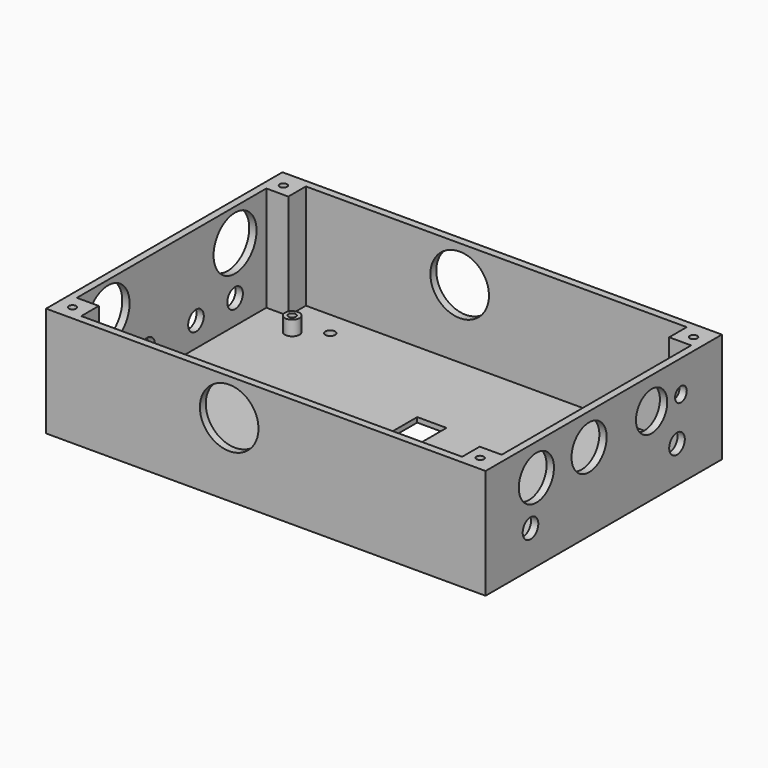
from build123d import *

# Parameters (mm, degrees)
SKETCH_W        = 180
SKETCH_H        = 121
SKETCH_R        = 2
SKETCH_W_2      = 12
SKETCH_H_2      = 40
PAD_DEPTH       = 2
SKETCH001_R     = 3
SKETCH001_R_2   = 1.5
PAD001_DEPTH    = 6
SKETCH002_W     = 3
SKETCH002_H     = 121
PAD002_DEPTH    = 43
SKETCH003_R     = 11
SKETCH003_R_2   = 4
POCKET_DEPTH    = 5
SKETCH004_W     = 3
SKETCH004_H     = 121
PAD003_DEPTH    = 43
SKETCH005_R     = 8
SKETCH005_R_2   = 9
SKETCH005_R_3   = 4
SKETCH005_R_4   = 3
POCKET001_DEPTH = 3
SKETCH006_W     = 174
SKETCH006_H     = 3
PAD004_DEPTH    = 43
SKETCH007_R     = 12
POCKET002_DEPTH = 130
SKETCH008_W     = 12
SKETCH008_H     = 12
PAD005_DEPTH    = 43
SKETCH009_R     = 1.5
POCKET003_DEPTH = 10


with BuildPart() as part:
    # Sketch → Pad (new body)
    with BuildSketch(Plane.XY):
        with Locations((90, 60.5)):
            Rectangle(SKETCH_W, SKETCH_H)
        with Locations((30, 13)):
            Circle(SKETCH_R, mode=Mode.SUBTRACT)
        with Locations((152, 13)):
            Circle(SKETCH_R, mode=Mode.SUBTRACT)
        with Locations((30, 108)):
            Circle(SKETCH_R, mode=Mode.SUBTRACT)
        with Locations((152, 108)):
            Circle(SKETCH_R, mode=Mode.SUBTRACT)
        with Locations((94, 60)):
            Rectangle(SKETCH_W_2, SKETCH_H_2, mode=Mode.SUBTRACT)
    extrude(amount=PAD_DEPTH)

    # Sketch001 → Pad001 (new body)
    with BuildSketch(Plane.XY.offset(2)):
        with Locations((20, 20)):
            Circle(SKETCH001_R)
        with Locations((20, 20)):
            Circle(SKETCH001_R_2, mode=Mode.SUBTRACT)
        with Locations((20, 101)):
            Circle(SKETCH001_R)
        with Locations((20, 101)):
            Circle(SKETCH001_R_2, mode=Mode.SUBTRACT)
        with Locations((170, 20)):
            Circle(SKETCH001_R)
        with Locations((170, 20)):
            Circle(SKETCH001_R_2, mode=Mode.SUBTRACT)
        with Locations((170, 101)):
            Circle(SKETCH001_R)
        with Locations((170, 101)):
            Circle(SKETCH001_R_2, mode=Mode.SUBTRACT)
    extrude(amount=PAD001_DEPTH)

    # Sketch002 → Pad002 (new body)
    with BuildSketch(Plane.XY.offset(2)):
        with Locations((1.5, 60.5)):
            Rectangle(SKETCH002_W, SKETCH002_H)
    extrude(amount=PAD002_DEPTH)

    # Sketch003 → Pocket (cut)
    with BuildSketch(Plane(origin=(0, 0, 0), x_dir=(0, -1, 0), z_dir=(-1, 0, 0))):
        with Locations((-28, 32)):
            Circle(SKETCH003_R)
        with Locations((-93, 31.798983)):
            Circle(SKETCH003_R)
        with Locations((-28, 12)):
            Circle(SKETCH003_R_2)
        with Locations((-48, 12)):
            Circle(SKETCH003_R_2)
        with Locations((-93, 12)):
            Circle(SKETCH003_R_2)
        with Locations((-73, 12)):
            Circle(SKETCH003_R_2)
    extrude(amount=-POCKET_DEPTH, mode=Mode.SUBTRACT)

    # Sketch004 → Pad003 (new body)
    with BuildSketch(Plane.XY.offset(2)):
        with Locations((178.5, 60.5)):
            Rectangle(SKETCH004_W, SKETCH004_H)
    extrude(amount=PAD003_DEPTH)

    # Sketch005 → Pocket001 (cut)
    with BuildSketch(Plane.YZ.offset(180)):
        with Locations((85, 32)):
            Circle(SKETCH005_R)
        with Locations((26, 32)):
            Circle(SKETCH005_R_2)
        with Locations((53, 32)):
            Circle(SKETCH005_R_2)
        with Locations((23, 15)):
            Circle(SKETCH005_R_3)
        with Locations((98, 15)):
            Circle(SKETCH005_R_3)
        with Locations((100, 32)):
            Circle(SKETCH005_R_4)
    extrude(amount=-POCKET001_DEPTH, mode=Mode.SUBTRACT)

    # Sketch006 → Pad004 (new body)
    with BuildSketch(Plane.XY.offset(2)):
        with Locations((90, 1.5)):
            Rectangle(SKETCH006_W, SKETCH006_H)
        with Locations((90, 119.5)):
            Rectangle(SKETCH006_W, SKETCH006_H)
    extrude(amount=PAD004_DEPTH)

    # Sketch007 → Pocket002 (cut)
    with BuildSketch(Plane(origin=(0, 121, 0), x_dir=(-1, 0, 0), z_dir=(0, 1, 0))):
        with Locations((-75, 30)):
            Circle(SKETCH007_R)
    extrude(amount=-POCKET002_DEPTH, mode=Mode.SUBTRACT)

    # Sketch008 → Pad005 (new body)
    with BuildSketch(Plane.XY.offset(2)):
        with Locations((6, 6)):
            Rectangle(SKETCH008_W, SKETCH008_H)
        with Locations((6, 115)):
            Rectangle(SKETCH008_W, SKETCH008_H)
        with Locations((174, 115)):
            Rectangle(SKETCH008_W, SKETCH008_H)
        with Locations((174, 6)):
            Rectangle(SKETCH008_W, SKETCH008_H)
    extrude(amount=PAD005_DEPTH)

    # Sketch009 → Pocket003 (cut)
    with BuildSketch(Plane.XY.offset(45)):
        with Locations((6, 6)):
            Circle(SKETCH009_R)
        with Locations((173, 6)):
            Circle(SKETCH009_R)
        with Locations((6, 114)):
            Circle(SKETCH009_R)
        with Locations((174, 114)):
            Circle(SKETCH009_R)
    extrude(amount=-POCKET003_DEPTH, mode=Mode.SUBTRACT)


solid = part.part
